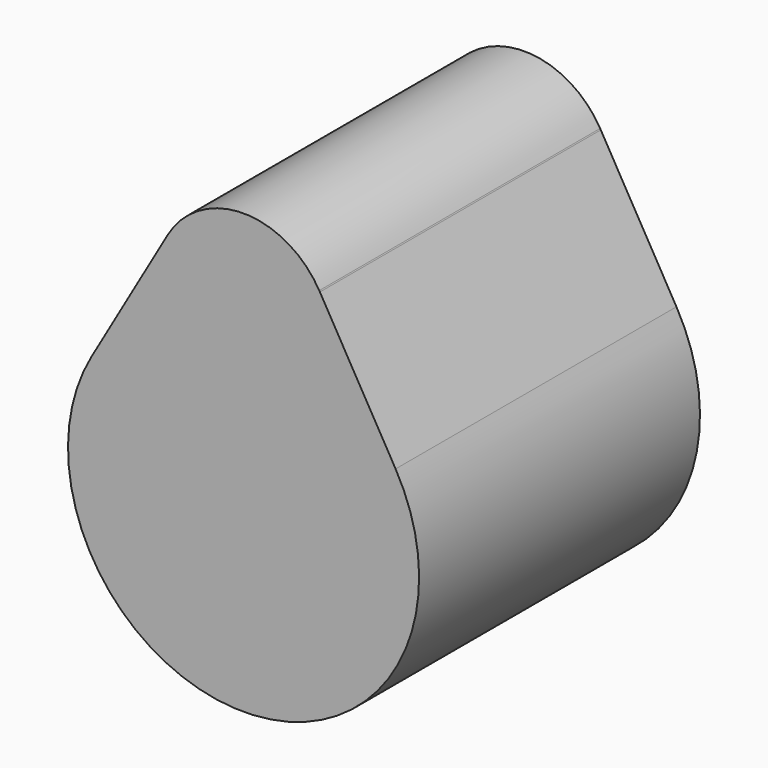
from build123d import *

# Parameters (mm, degrees)
F1_DEPTH = 25.4


with BuildPart() as f1:
    # F0 (on Front) → F1 (new body)
    with BuildSketch(Plane.XZ):
        with BuildLine():
            Line((-5.521958, 15.83536), (-10.998427, 6.350165))
            ThreePointArc((-10.998427, 6.350165), (0, -12.7), (10.998427, 6.350165))
            Line((10.998427, 6.350165), (5.521958, 15.83536))
            Line((5.521958, 15.83536), (5.476184, 15.91464))
            ThreePointArc((5.476184, 15.91464), (0, 19.05), (-5.476184, 15.91464))
            Line((-5.476184, 15.91464), (-5.521958, 15.83536))
        make_face()
    extrude(amount=F1_DEPTH)


solid = f1.part
